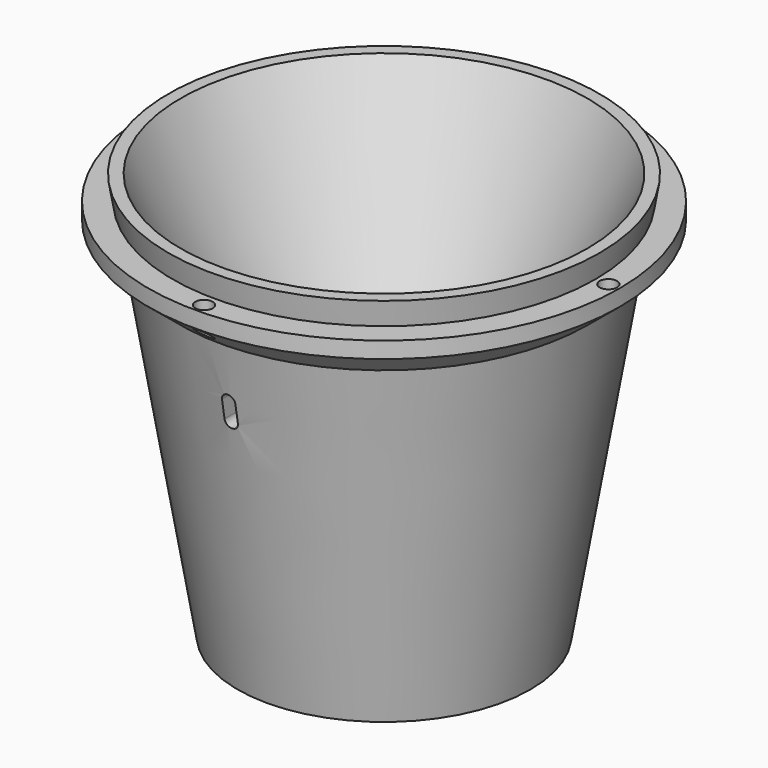
from build123d import *

# Parameters (mm, degrees)
PAD_DEPTH       = 50
SKETCH_R        = 2.112176
SKETCH_R_2      = 2.082394
SKETCH_R_3      = 2.112641
SKETCH_R_4      = 2.091899
POCKET001_DEPTH = 12
SKETCH005_R     = 2.149119
SKETCH005_R_2   = 2.108774
SKETCH005_R_3   = 2.065142
SKETCH005_R_4   = 2.149709
POCKET002_DEPTH = 15


with BuildPart() as pad:
    # Sketch004 → Pad (new body)
    with BuildSketch(Plane.XZ):
        with BuildLine():
            ThreePointArc((1.645506, 70), (0, 71.645506), (-1.645506, 70))
            Line((-1.645506, 70), (-1.645506, 65.439445))
            ThreePointArc((-1.645506, 65.439445), (0, 63.793939), (1.645506, 65.439445))
            Line((1.645506, 70), (1.645506, 65.439445))
        make_face()
    extrude(amount=PAD_DEPTH)


with BuildPart() as obj1:
    # Sketch003 → Revolution001 (revolve)
    with BuildSketch(Plane.XZ):
        Polygon((5, 0), (50, 100), (53, 100), (52, 94), (58, 94), (58, 90), (50, 83.40284), (36, 0), align=None)
    revolve(axis=Axis((0, 0, 0), (0, 0, 1)))

    # Sketch → Pocket001 (cut)
    with BuildSketch(Plane(origin=(0, 0, 0), x_dir=(1, 0, 0), z_dir=(0, 0, -1))):
        with Locations((22, 22)):
            Circle(SKETCH_R)
        with Locations((-22, 22)):
            Circle(SKETCH_R_2)
        with Locations((22, -22)):
            Circle(SKETCH_R_3)
        with Locations((-22, -22)):
            Circle(SKETCH_R_4)
    extrude(amount=-POCKET001_DEPTH, mode=Mode.SUBTRACT)

    # Cut: cut Pad
    add(pad.part, mode=Mode.SUBTRACT)

    # Sketch005 → Pocket002 (cut)
    with BuildSketch(Plane.XY.offset(94)):
        with Locations((55.218414, -0.064825)):
            Circle(SKETCH005_R)
        with Locations((0, 55.39975)):
            Circle(SKETCH005_R_2)
        with Locations((-55.548775, 0)):
            Circle(SKETCH005_R_3)
        with Locations((0, -55.311054)):
            Circle(SKETCH005_R_4)
    extrude(amount=-POCKET002_DEPTH, mode=Mode.SUBTRACT)


solid = obj1.part
